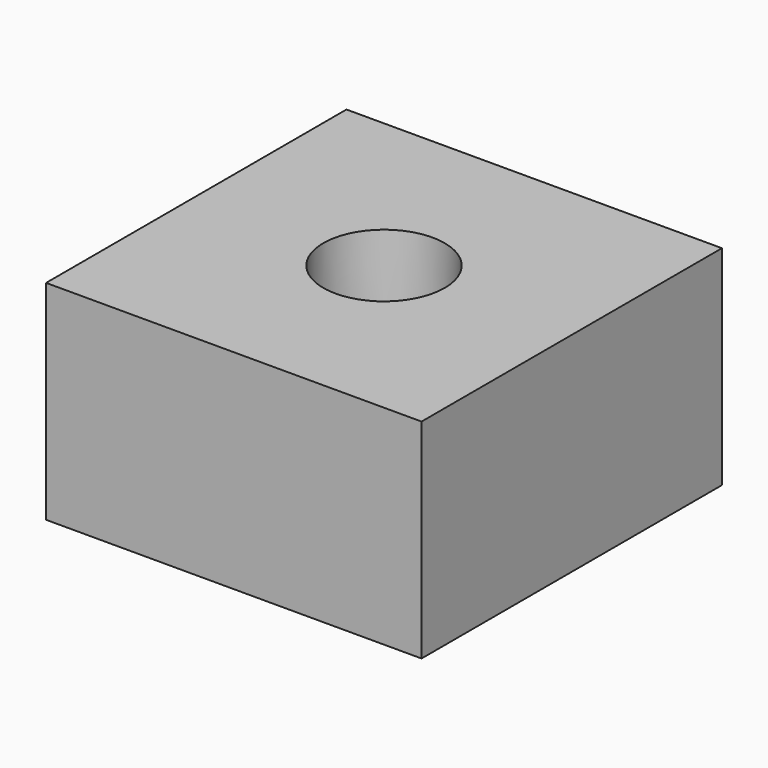
from build123d import *

# Parameters (mm, degrees)
F0_W     = 22.86
F0_H     = 22.86
F1_DEPTH = 12.7


with BuildPart() as f1:
    # F0 (on Top) → F1 (new body)
    with BuildSketch(Plane.XY):
        Rectangle(F0_W, F0_H)
    extrude(amount=F1_DEPTH)

    # F2 (on Front) → F3 (revolve, cut)
    with BuildSketch(Plane.XZ):
        Polygon((0, 78.74), (0, 0), (3.429, 0), (5.08, 78.74), align=None)
    revolve(axis=Axis((0, 0, 39.37), (0, 0, 1)), mode=Mode.SUBTRACT)


solid = f1.part
